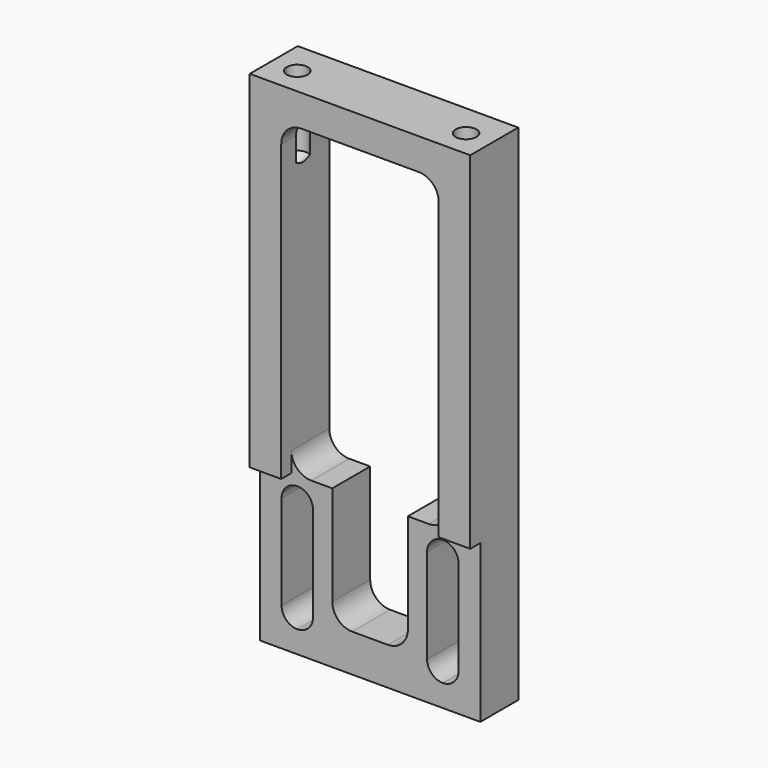
from build123d import *

# Parameters (mm, degrees)
F1_DEPTH = 9.525
F3_DEPTH = 2
F5_D     = 3.3
F5_DEPTH = 12
F5_TIP   = 0.9914200214
F7_DEPTH = 2


with BuildPart() as f1:
    # F0 (on Front) → F1 (new body)
    with BuildSketch(Plane.XZ):
        with BuildLine():
            Line((-17.5, -40), (17.5, -40))
            Line((17.5, -40), (17.5, -15))
            Line((17.5, -15), (9.325, -15))
            Line((9.325, -15), (6, -15))
            Line((6, -15), (6, -30.825))
            ThreePointArc((6, -30.825), (5.0700640303, -33.0700640303), (2.825, -34))
            Line((2.825, -34), (-2.825, -34))
            ThreePointArc((-2.825, -34), (-5.0700640303, -33.0700640303), (-6, -30.825))
            Line((-6, -30.825), (-6, -15))
            Line((-6, -15), (-9.325, -15))
            Line((-9.325, -15), (-17.5, -15))
            Line((-17.5, -15), (-17.5, -40))
        make_face()
        with BuildLine():
            Line((-9.0496408567, -19), (-9.0496408567, -34))
            ThreePointArc((-9.0496408567, -34), (-9.7818739037, -35.767766953), (-11.5496408567, -36.5))
            ThreePointArc((-11.5496408567, -36.5), (-13.3174078096, -35.767766953), (-14.0496408567, -34))
            Line((-14.0496408567, -34), (-14.0496408567, -19))
            ThreePointArc((-14.0496408567, -19), (-13.3174078096, -17.232233047), (-11.5496408567, -16.5))
            ThreePointArc((-11.5496408567, -16.5), (-9.7818739037, -17.232233047), (-9.0496408567, -19))
        make_face(mode=Mode.SUBTRACT)
        with BuildLine():
            ThreePointArc((11.5496408567, -36.5), (9.7818739037, -35.767766953), (9.0496408567, -34))
            Line((9.0496408567, -34), (9.0496408567, -19))
            ThreePointArc((9.0496408567, -19), (9.7818739037, -17.232233047), (11.5496408567, -16.5))
            ThreePointArc((11.5496408567, -16.5), (13.3174078096, -17.232233047), (14.0496408567, -19))
            Line((14.0496408567, -19), (14.0496408567, -34))
            ThreePointArc((14.0496408567, -34), (13.3174078096, -35.767766953), (11.5496408567, -36.5))
        make_face(mode=Mode.SUBTRACT)
        with BuildLine():
            Line((9.325, -15), (17.5, -15))
            Line((17.5, -15), (17.5, 40))
            Line((17.5, 40), (-17.5, 40))
            Line((-17.5, 40), (-17.5, -15))
            Line((-17.5, -15), (-9.325, -15))
            ThreePointArc((-9.325, -15), (-11.5700640303, -14.0700640303), (-12.5, -11.825))
            Line((-12.5, -11.825), (-12.5, 31.825))
            ThreePointArc((-12.5, 31.825), (-11.5700640303, 34.0700640303), (-9.325, 35))
            Line((-9.325, 35), (9.325, 35))
            ThreePointArc((9.325, 35), (11.5700640303, 34.0700640303), (12.5, 31.825))
            Line((12.5, 31.825), (12.5, -11.825))
            ThreePointArc((12.5, -11.825), (11.5700640303, -14.0700640303), (9.325, -15))
        make_face()
    extrude(amount=F1_DEPTH)

    # F2 (on face) → F3 (cut)
    with BuildSketch(Plane.XZ.offset(9.525)):
        with BuildLine():
            Line((-9.325, -15), (-17.5, -15))
            Line((-17.5, -15), (-17.5, -40))
            Line((-17.5, -40), (17.5, -40))
            Line((17.5, -40), (17.5, -15))
            Line((17.5, -15), (9.325, -15))
            Line((9.325, -15), (6, -15))
            Line((6, -15), (6, -30.825))
            ThreePointArc((6, -30.825), (5.0700640303, -33.0700640303), (2.825, -34))
            Line((2.825, -34), (-2.825, -34))
            ThreePointArc((-2.825, -34), (-5.0700640303, -33.0700640303), (-6, -30.825))
            Line((-6, -30.825), (-6, -15))
            Line((-6, -15), (-9.325, -15))
        make_face()
        with BuildLine():
            ThreePointArc((-14.0496408567, -19), (-11.5496408567, -16.5), (-9.0496408567, -19))
            Line((-9.0496408567, -19), (-9.0496408567, -34))
            ThreePointArc((-9.0496408567, -34), (-11.5496408567, -36.5), (-14.0496408567, -34))
            Line((-14.0496408567, -34), (-14.0496408567, -19))
        make_face(mode=Mode.SUBTRACT)
        with BuildLine():
            Line((14.0496408567, -19), (14.0496408567, -34))
            ThreePointArc((14.0496408567, -34), (11.5496408567, -36.5), (9.0496408567, -34))
            Line((9.0496408567, -34), (9.0496408567, -19))
            ThreePointArc((9.0496408567, -19), (11.5496408567, -16.5), (14.0496408567, -19))
        make_face(mode=Mode.SUBTRACT)
    extrude(amount=-F3_DEPTH, mode=Mode.SUBTRACT)

    # F5
    with Locations(Plane.XY.offset(40)):
        with Locations((-13.4, -5.225), (13.4, -5.225)):
            Hole(F5_D / 2, depth=F5_DEPTH)
            with Locations((0, 0, -(F5_DEPTH + F5_TIP / 2))):  # 118° drill point
                Cone(0, F5_D / 2, F5_TIP, mode=Mode.SUBTRACT)

    # F6 (on face) → F7 (cut, through all)
    with BuildSketch(Plane.XZ.offset(9.525)):
        with BuildLine():
            ThreePointArc((-9.325, -15), (-11.5700640303, -14.0700640303), (-12.5, -11.825))
            Line((-12.5, -11.825), (-12.5, -15))
            Line((-12.5, -15), (-9.325, -15))
        make_face()
        with BuildLine():
            Line((12.5, -15), (12.5, -11.825))
            ThreePointArc((12.5, -11.825), (11.5700640303, -14.0700640303), (9.325, -15))
            Line((9.325, -15), (12.5, -15))
        make_face()
    extrude(amount=-F7_DEPTH, mode=Mode.SUBTRACT)


solid = f1.part
